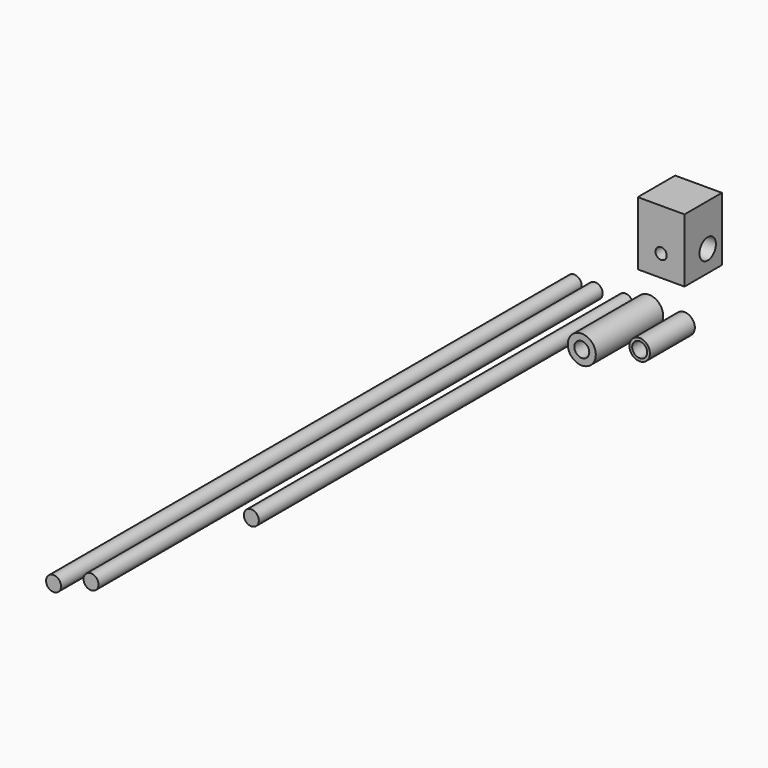
from build123d import *

# Parameters (mm, degrees)
F0_R      = 4
F1_DEPTH  = 348
F2_R      = 4
F3_DEPTH  = 250
F4_R      = 7.5
F4_R_2    = 4
F5_DEPTH  = 45
F7_DEPTH  = 337
F8_R      = 5.5
F8_R_2    = 4
F9_DEPTH  = 30
F10_W     = 25
F10_H     = 25
F11_DEPTH = 34
F12_R     = 5.5
F13_DEPTH = 51.4887558053
F14_R     = 3
F15_DEPTH = 10.8912278714


with BuildPart() as f1:
    # F0 (on Front) → F1 (new body)
    with BuildSketch(Plane.XZ):
        with Locations((-61.8913210928, 0)):
            Circle(F0_R)
    extrude(amount=F1_DEPTH)


with BuildPart() as f3:
    # F2 (on Front) → F3 (new body)
    with BuildSketch(Plane.XZ):
        with Locations((-45.7709917038, 0)):
            Circle(F2_R)
    extrude(amount=F3_DEPTH)


with BuildPart() as f5:
    # F4 (on Front) → F5 (new body)
    with BuildSketch(Plane.XZ):
        with Locations((-33.0787301064, 0)):
            Circle(F4_R)
        with Locations((-33.0787301064, 0)):
            Circle(F4_R_2, mode=Mode.SUBTRACT)
    extrude(amount=F5_DEPTH)


with BuildPart() as f1_1:
    # F6: moved
    add(f1.part.moved(Location((-11.22887, 0, 0))))


with BuildPart() as f7:
    # F0 (on Front) → F7 (new body)
    with BuildSketch(Plane.XZ):
        with Locations((-61.8913210928, 0)):
            Circle(F0_R)
    extrude(amount=F7_DEPTH)


with BuildPart() as f9:
    # F8 (on Front) → F9 (new body)
    with BuildSketch(Plane.XZ):
        with Locations((-14.1317043453, 0)):
            Circle(F8_R)
        with Locations((-14.1317043453, 0)):
            Circle(F8_R_2, mode=Mode.SUBTRACT)
    extrude(amount=F9_DEPTH)


with BuildPart() as f11:
    # F10 (on Top) → F11 (new body)
    with BuildSketch(Plane.XY):
        with Locations((-47.6194601506, 38.7181088603)):
            Rectangle(F10_W, F10_H)
    extrude(amount=F11_DEPTH)

    # F12 (on face) → F13 (cut, through all)
    with BuildSketch(Plane(origin=(-60.1194601506, 0, 0), x_dir=(0, -1, 0), z_dir=(-1, 0, 0))):
        with Locations((-41.7181088603, 11.5)):
            Circle(F12_R)
    extrude(amount=-F13_DEPTH, mode=Mode.SUBTRACT)

    # F14 (on face) → F15 (cut, through all)
    with BuildSketch(Plane.XZ.offset(-26.2181088603)):
        with Locations((-47.6194601506, 11.5)):
            Circle(F14_R)
    extrude(amount=-F15_DEPTH, mode=Mode.SUBTRACT)


solid = Compound([f3.part, f5.part, f1_1.part, f7.part, f9.part, f11.part])
